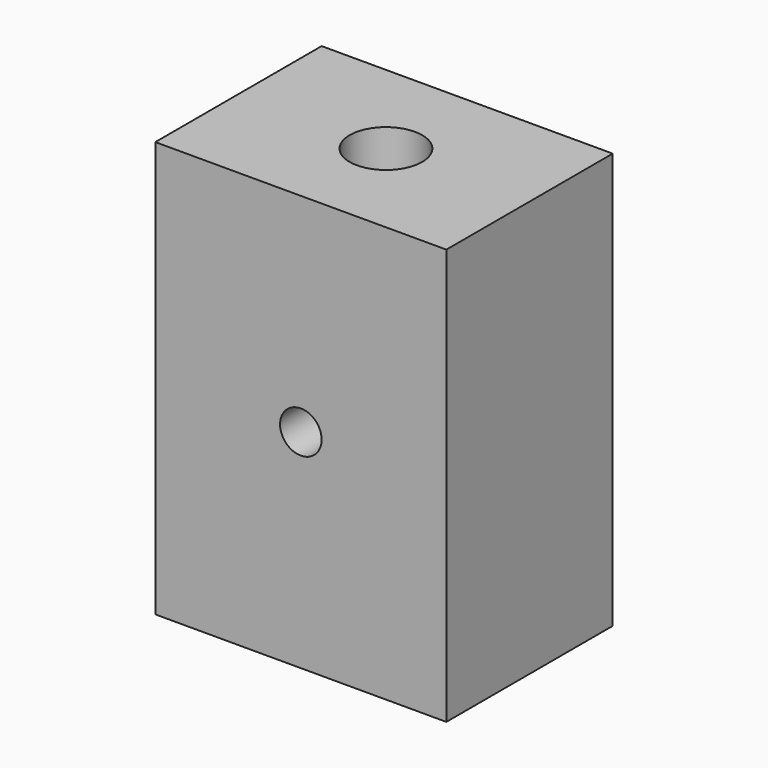
from build123d import *

# Parameters (mm, degrees)
F0_W     = 35.56
F0_H     = 50.8
F0_R     = 2.54
F1_DEPTH = 25.4
F2_R     = 4.433726
F3_DEPTH = 127


with BuildPart() as f1:
    # F0 (on Front) → F1 (new body)
    with BuildSketch(Plane.XZ):
        with Locations((-0.236521, -30.691942)):
            Rectangle(F0_W, F0_H)
        with Locations((-0.236521, -30.691942)):
            Circle(F0_R, mode=Mode.SUBTRACT)
    extrude(amount=F1_DEPTH)

    # F2 (on face) → F3 (cut)
    with BuildSketch(Plane.XY.offset(-5.291942)):
        with Locations((0, -12.7)):
            Circle(F2_R)
    extrude(amount=-F3_DEPTH, mode=Mode.SUBTRACT)


solid = f1.part
